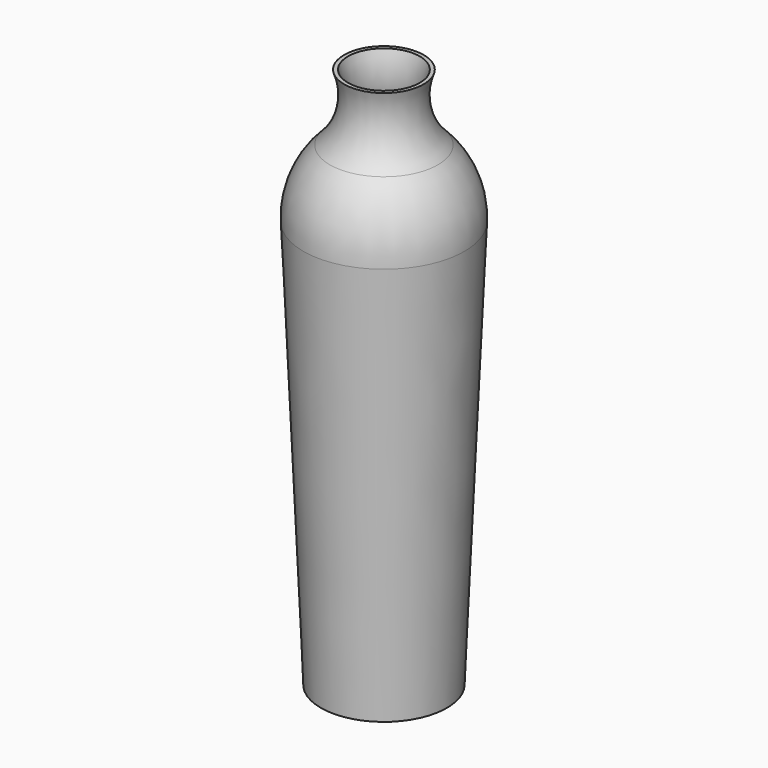
from build123d import *


with BuildPart() as f1:
    # F0 (on Front) → F1 (revolve)
    with BuildSketch(Plane.XZ):
        with BuildLine():
            Line((-8.854447, -18.343976), (0, -18.343976))
            Line((0, -18.343976), (0, -17.835976))
            Line((0, -17.835976), (-8.367852, -17.835976))
            Line((-8.367852, -17.835976), (-10.812766, 38.940323))
            ThreePointArc((-10.812766, 38.940323), (-9.989486, 43.872899), (-7.239652, 48.049801))
            ThreePointArc((-7.239652, 48.049801), (-4.731806, 52.564304), (-5.041906, 57.719287))
            Line((-5.041906, 57.719287), (-5.583482, 57.719287))
            ThreePointArc((-5.583482, 57.719287), (-5.207415, 52.765972), (-7.596975, 48.410888))
            ThreePointArc((-7.596975, 48.410888), (-10.462407, 44.058398), (-11.320296, 38.918467))
            Line((-11.320296, 38.918467), (-8.854447, -18.343976))
        make_face()
    revolve(axis=Axis((0, 0, -19.859783), (0, 0, 1)))


solid = f1.part
